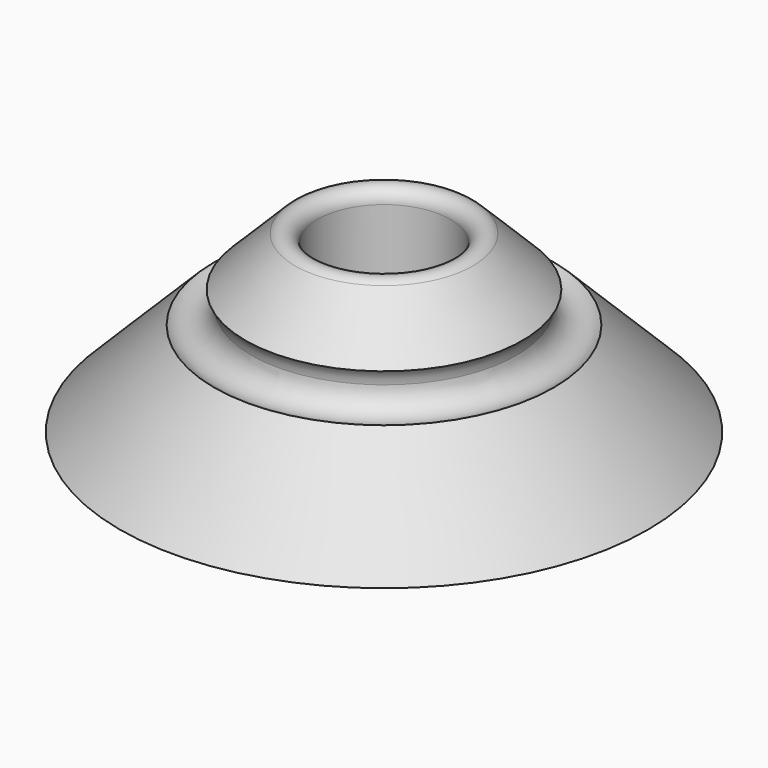
from build123d import *

# Parameters (mm, degrees)
F2_R = 10


with BuildPart() as f1:
    # F0 (on Front) → F1 (revolve)
    with BuildSketch(Plane.XZ):
        with BuildLine():
            Line((-119.485281, 0), (-30, 0))
            Line((-30, 0), (-30, 75))
            ThreePointArc((-30, 75), (-33.703899, 80.543277), (-40.242641, 79.242641))
            Line((-40.242641, 79.242641), (-119.485281, 0))
        make_face()
    revolve(axis=Axis((0, 0, 64.130453), (0, 0, 1)))

    # F2 (on Front) → F3 (revolve, cut)
    with BuildSketch(Plane.XZ):
        with Locations((-70, 50)):
            Circle(F2_R)
    revolve(axis=Axis((0, 0, 64.130453), (0, 0, 1)), mode=Mode.SUBTRACT)


solid = f1.part
